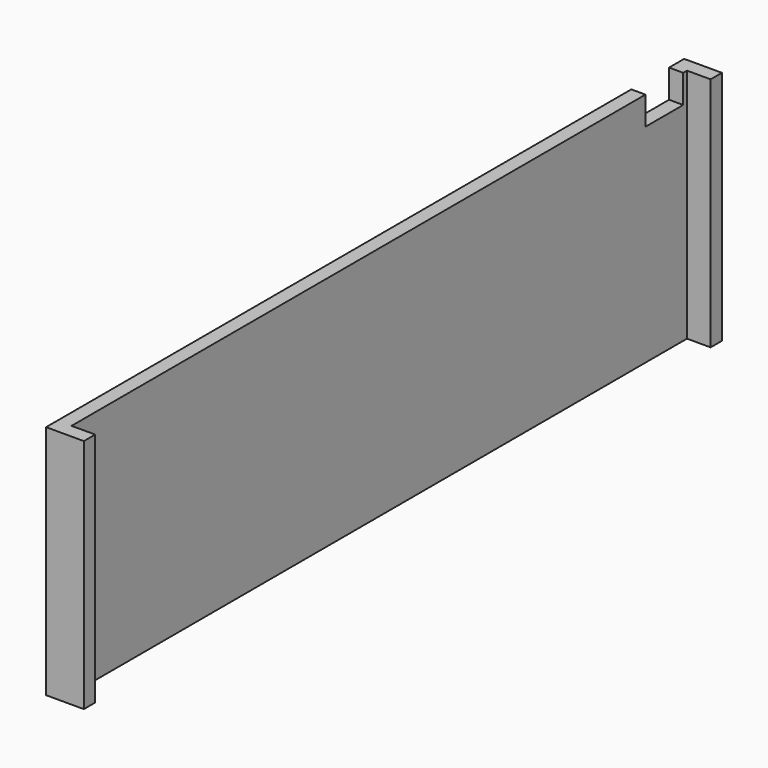
from build123d import *

# Parameters (mm, degrees)
SKETCH102_W      = 5
SKETCH102_H      = 4
EXTRUDE093_DEPTH = 5
EXTRUDE064_DEPTH = 25


with BuildPart() as extrude093:
    # Sketch102 → Extrude093 (new body)
    with BuildSketch(Plane(origin=(-6, 0, 0), x_dir=(0, -1, 0), z_dir=(-1, 0, 0))):
        with Locations((-89, 2)):
            Rectangle(SKETCH102_W, SKETCH102_H)
    extrude(amount=-EXTRUDE093_DEPTH)


with BuildPart() as cut015:
    # Sketch074 → Extrude064 (new body)
    with BuildSketch(Plane.XY.offset(3)):
        Polygon((-4, 93.5), (0, 93.5), (0, 92), (-2.5, 92), (-2.5, 10.5), (0, 10.5), (0, 9), (-4, 9), align=None)
    extrude(amount=-EXTRUDE064_DEPTH)

    # Cut015: cut Extrude093
    add(extrude093.part, mode=Mode.SUBTRACT)


solid = cut015.part
